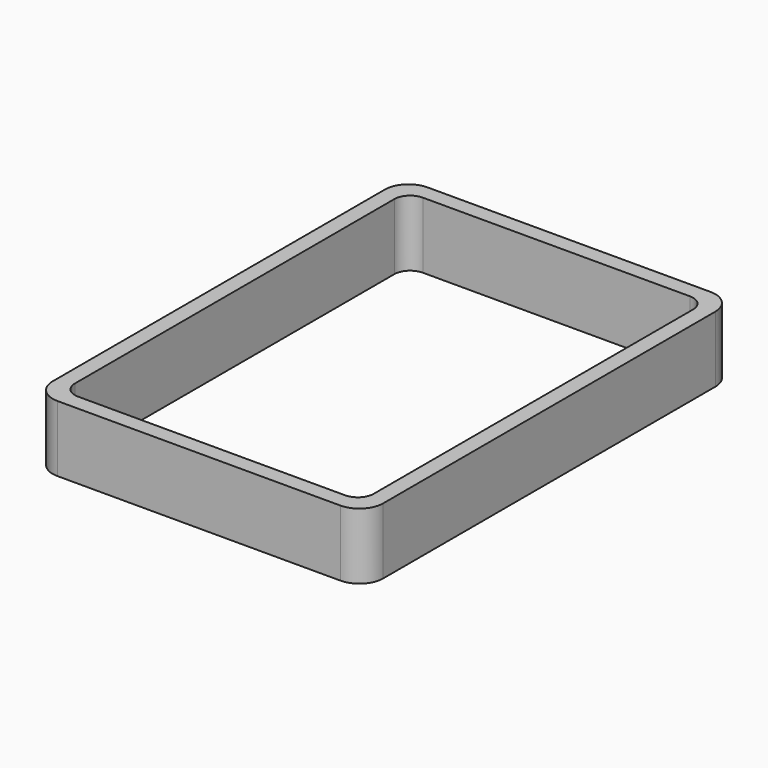
from build123d import *

# Parameters (mm, degrees)
EXTRUDE_DEPTH = 50


with BuildPart() as part:
    # Sketch → Extrude (new body)
    with BuildSketch(Plane.XY):
        with BuildLine():
            Line((-107, 175), (107, 175))
            ThreePointArc((125, 157), (119.727922, 169.727922), (107, 175))
            Line((125, 157), (125, -157))
            ThreePointArc((107, -175), (119.727922, -169.727922), (125, -157))
            Line((107, -175), (-107, -175))
            ThreePointArc((-125, -157), (-119.727922, -169.727922), (-107, -175))
            Line((-125, -157), (-125, 157))
            ThreePointArc((-107, 175), (-119.727922, 169.727922), (-125, 157))
        make_face()
        with BuildLine():
            Line((-101, 163), (101, 163))
            ThreePointArc((113, 151), (109.485281, 159.485281), (101, 163))
            Line((113, 151), (113, -151))
            ThreePointArc((101, -163), (109.485281, -159.485281), (113, -151))
            Line((101, -163), (-101, -163))
            ThreePointArc((-113, -151), (-109.485281, -159.485281), (-101, -163))
            Line((-113, -151), (-113, 151))
            ThreePointArc((-101, 163), (-109.485281, 159.485281), (-113, 151))
        make_face(mode=Mode.SUBTRACT)
    extrude(amount=EXTRUDE_DEPTH)


solid = part.part
